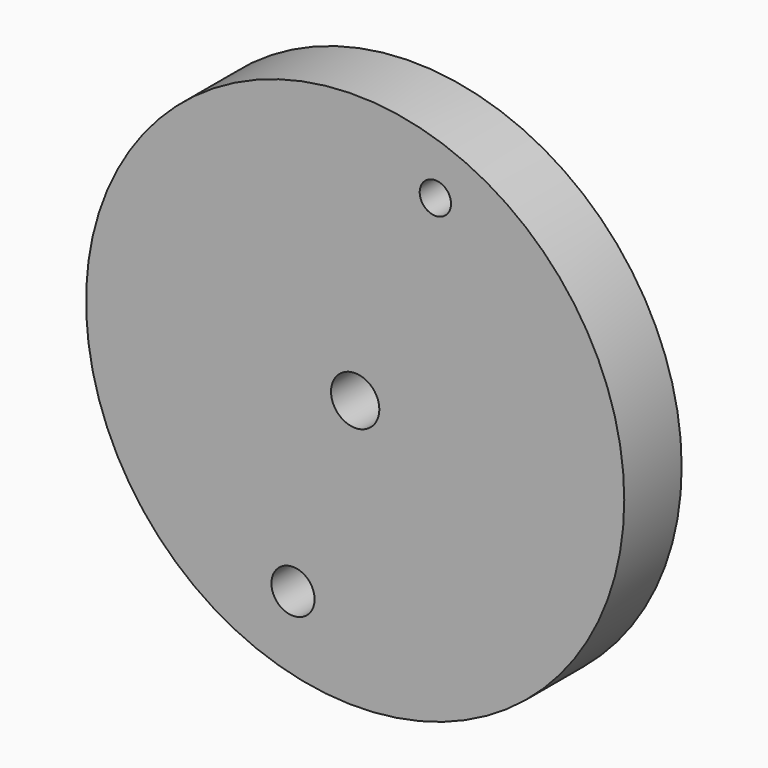
from build123d import *

# Parameters (mm, degrees)
F0_R     = 19.05
F0_R_2   = 1.528175
F0_R_3   = 1.710195
F0_R_4   = 1.110711
F1_DEPTH = 5.08


with BuildPart() as f1:
    # F0 (on Front) → F1 (new body)
    with BuildSketch(Plane.XZ):
        with Locations((-56.255054, 38.644318)):
            Circle(F0_R)
        with Locations((-60.655179, 25.321766)):
            Circle(F0_R_2, mode=Mode.SUBTRACT)
        with Locations((-56.255054, 38.644318)):
            Circle(F0_R_3, mode=Mode.SUBTRACT)
        with Locations((-50.577127, 53.111181)):
            Circle(F0_R_4, mode=Mode.SUBTRACT)
    extrude(amount=F1_DEPTH)


solid = f1.part
